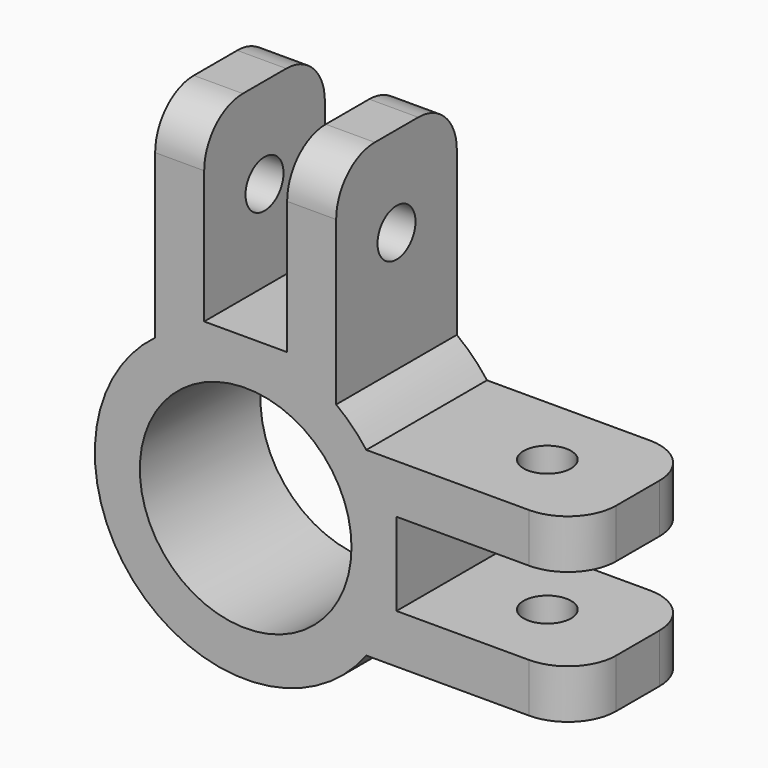
from build123d import *

# Parameters (mm, degrees)
F0_R     = 15.875
F0_R_2   = 11.1379
F1_DEPTH = 15.875
F3_DEPTH = 15.875
F4_R     = 11.1379
F5_DEPTH = 15.876
F6_R     = 2.5
F7_DEPTH = 25.401
F9_DEPTH = 44.451
F10_R    = 5.08


with BuildPart() as f1:
    # F0 (on Front) → F1 (new body)
    with BuildSketch(Plane.XZ):
        Circle(F0_R)
        Circle(F0_R_2, mode=Mode.SUBTRACT)
    extrude(amount=F1_DEPTH)

    # F2 (on face) → F3 (join, through all)
    with BuildSketch(Plane.XZ.offset(15.875)):
        with BuildLine():
            Line((-4.365625, 15.875), (-4.365625, 34.925))
            Line((-4.365625, 34.925), (-9.525, 34.925))
            Line((-9.525, 34.925), (-9.525, 12.7))
            ThreePointArc((-9.525, 12.7), (-5.0201157855, 15.0603473566), (0, 15.875))
            Line((0, 15.875), (-4.365625, 15.875))
        make_face()
        with BuildLine():
            Line((9.525, 12.7), (9.525, 34.925))
            Line((9.525, 34.925), (4.365625, 34.925))
            Line((4.365625, 34.925), (4.365625, 15.875))
            Line((4.365625, 15.875), (0, 15.875))
            ThreePointArc((0, 15.875), (5.0201157855, 15.0603473566), (9.525, 12.7))
        make_face()
        with BuildLine():
            Line((34.925, 9.525), (12.7, 9.525))
            ThreePointArc((12.7, 9.525), (15.0603473566, 5.0201157855), (15.875, 0))
            Line((15.875, 0), (15.875, 4.365625))
            Line((15.875, 4.365625), (34.925, 4.365625))
            Line((34.925, 4.365625), (34.925, 9.525))
        make_face()
        with BuildLine():
            Line((15.875, -4.365625), (15.875, 0))
            ThreePointArc((15.875, 0), (15.0603473566, -5.0201157855), (12.7, -9.525))
            Line((12.7, -9.525), (34.925, -9.525))
            Line((34.925, -9.525), (34.925, -4.365625))
            Line((34.925, -4.365625), (15.875, -4.365625))
        make_face()
    extrude(amount=-F3_DEPTH)

    # F4 (on Front) → F5 (cut, through all)
    with BuildSketch(Plane.XZ):
        Circle(F4_R)
    extrude(amount=F5_DEPTH, mode=Mode.SUBTRACT)

    # F6 (on face) → F7 (cut, through all)
    with BuildSketch(Plane.XY.offset(9.525)):
        with Locations((25.4, -7.9375)):
            Circle(F6_R)
    extrude(amount=-F7_DEPTH, mode=Mode.SUBTRACT)

    # F8 (on face) → F9 (cut, through all)
    with BuildSketch(Plane(origin=(-9.525, 0, 0), x_dir=(0, -1, 0), z_dir=(-1, 0, 0))):
        with BuildLine():
            ThreePointArc((7.9375, 27.9), (6.169733047, 23.632233047), (10.4375, 25.4))
            ThreePointArc((10.4375, 25.4), (9.705266953, 27.167766953), (7.9375, 27.9))
        make_face()
    extrude(amount=-F9_DEPTH, mode=Mode.SUBTRACT)

    # F10
    f10_edges = [f1.edges().sort_by_distance(p)[0] for p in [
        (-6.945312, 0, 34.925),
        (6.945312, 0, 34.925),
        (6.945312, -15.875, 34.925),
        (-6.945312, -15.875, 34.925),
        (34.925, 0, 6.945312),
        (34.925, 0, -6.945312),
        (34.925, -15.875, 6.945312),
        (34.925, -15.875, -6.945312),
    ]]
    fillet(f10_edges, radius=F10_R)


solid = f1.part
